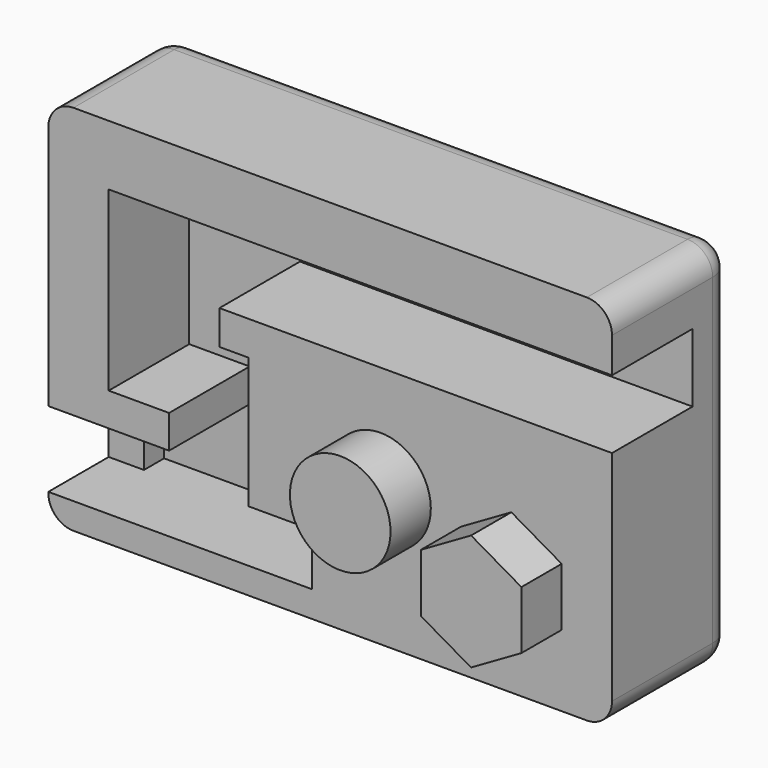
from build123d import *

# Parameters (mm, degrees)
F1_DEPTH  = 15
F3_DEPTH  = 10
F5_DEPTH  = 5
F6_W      = 3.5
F6_H      = 7.5
F7_DEPTH  = 2.5
F8_R      = 2.5
F9_R      = 5
F10_DEPTH = 5


with BuildPart() as f1:
    # F0 (on Front) → F1 (new body)
    with BuildSketch(Plane.XZ):
        Polygon((24.5, 18.5), (-24.5, 18.5), (-28, 18.5), (-28, -18.5), (-24.5, -18.5), (24.5, -18.5), (28, -18.5), (28, 18.5), align=None)
    extrude(amount=F1_DEPTH)

    # F2 (on face) → F3 (cut)
    with BuildSketch(Plane.XZ.offset(15)):
        Polygon((28, 12.5), (24.5, 12.5), (-22, 12.5), (-22, -5.1), (-16, -5.1), (-16, -8.4), (-24.5, -8.4), (-28, -8.4), (-28, -15.9), (-24.5, -15.9), (-1.8, -15.9), (-1.8, -10.7), (-8.1, -10.7), (-8.1, 2.3), (-11, 2.3), (-11, 5.7), (24.5, 5.7), (28, 5.7), align=None)
    extrude(amount=-F3_DEPTH, mode=Mode.SUBTRACT)

    # F4 (on face) → F5 (join)
    with BuildSketch(Plane.XZ.offset(15)):
        Polygon((23, -11.386751), (23, -5.613249), (18, -2.726497), (13, -5.613249), (13, -11.386751), (18, -14.273503), align=None)
    extrude(amount=F5_DEPTH)

    # F6 (on face) → F7 (join)
    with BuildSketch(Plane.XZ.offset(5)):
        with Locations((-26.25, -12.15)):
            Rectangle(F6_W, F6_H)
    extrude(amount=F7_DEPTH)

    # F8
    f8_edges = [f1.edges().sort_by_distance(p)[0] for p in [
        (-28, -7.5, 18.5),
        (28, -7.5, 18.5),
        (28, -7.5, -18.5),
        (-28, -7.5, -18.5),
        (0, 0, -18.5),
        (-28, 0, 0),
        (28, 0, 0),
        (0, 0, 18.5),
    ]]
    fillet(f8_edges, radius=F8_R)

    # F9 (on face) → F10 (join)
    with BuildSketch(Plane.XZ.offset(15)):
        with Locations((5, -5)):
            Circle(F9_R)
    extrude(amount=F10_DEPTH)


solid = f1.part
